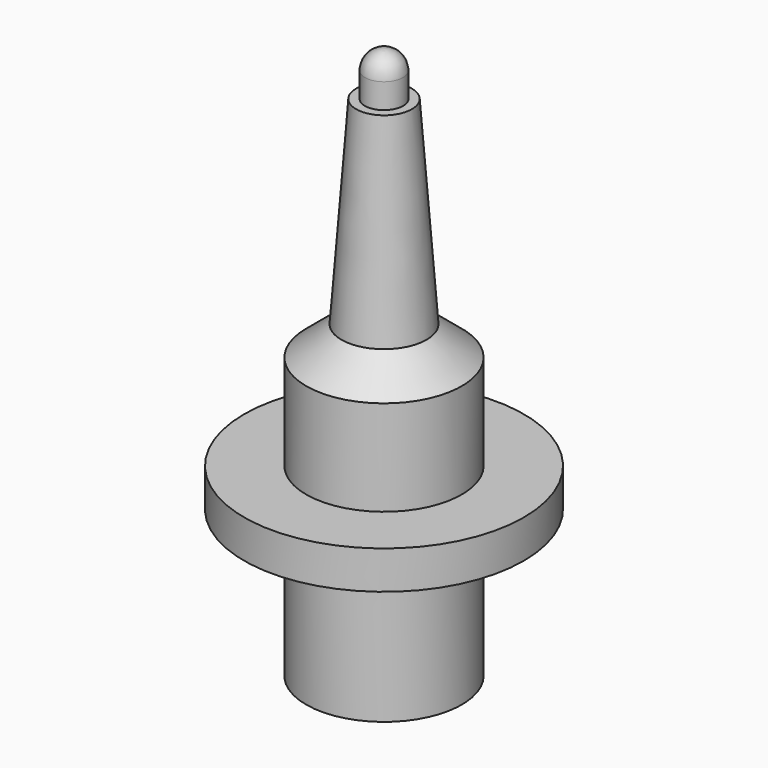
from build123d import *

# Parameters (mm, degrees)
F0_W = 5.3
F0_H = 10


with BuildPart() as f1:
    # F0 (on Front) → F1 (revolve)
    with BuildSketch(Plane.XZ):
        Polygon((0, -2.6), (0, 0), (-5.3, 0), (-9.525, 0), (-9.525, -2.6), (-5.3, -2.6), align=None)
        Polygon((-5.3, 0), (0, 0), (0, 22), (-1.3, 22), (-1.9, 22), (-2.9, 8.5), (-5.3, 6.5), align=None)
        with Locations((-2.65, -7.6)):
            Rectangle(F0_W, F0_H)
        with BuildLine():
            Line((-1.3, 22), (0, 22))
            Line((0, 22), (0, 25))
            ThreePointArc((0, 25), (-0.919239, 24.619239), (-1.3, 23.7))
            Line((-1.3, 23.7), (-1.3, 22))
        make_face()
    revolve(axis=Axis((0, 0, 11), (0, 0, -1)))


solid = f1.part
